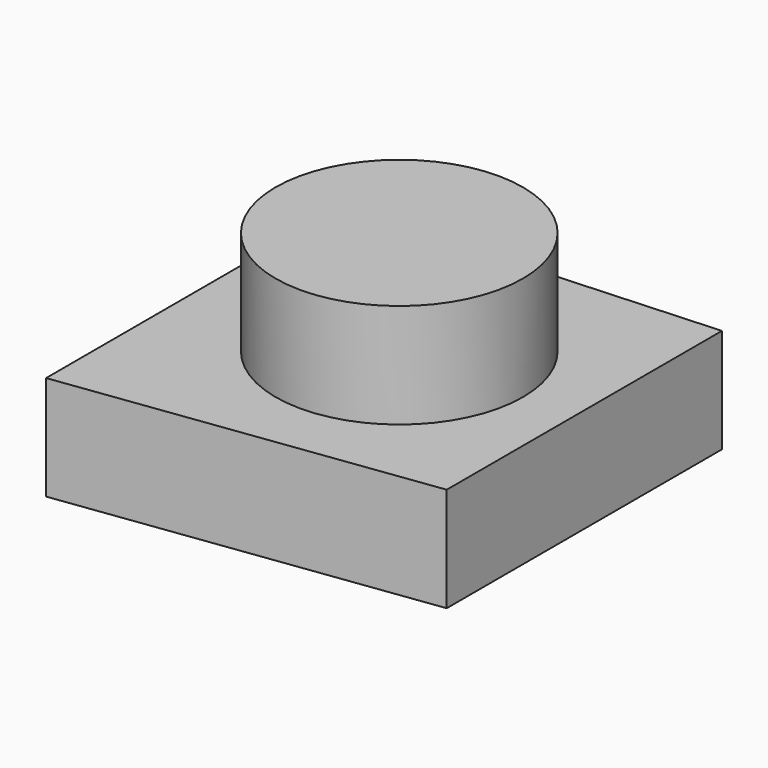
from build123d import *

# Parameters (mm, degrees)
F1_DEPTH = 25.4
F2_R     = 30.102878
F3_DEPTH = 25.4


with BuildPart() as f1:
    # F0 (on Top) → F1 (new body)
    with BuildSketch(Plane.XY):
        Polygon((0, 44.919912), (-88.173509, 39.967462), (-88.173509, -50.491571), (0, -38.812146), align=None)
    extrude(amount=F1_DEPTH)

    # F2 (on face) → F3 (join)
    with BuildSketch(Plane.XY.offset(25.4)):
        with Locations((-42.599842, 0)):
            Circle(F2_R)
    extrude(amount=F3_DEPTH)


solid = f1.part
